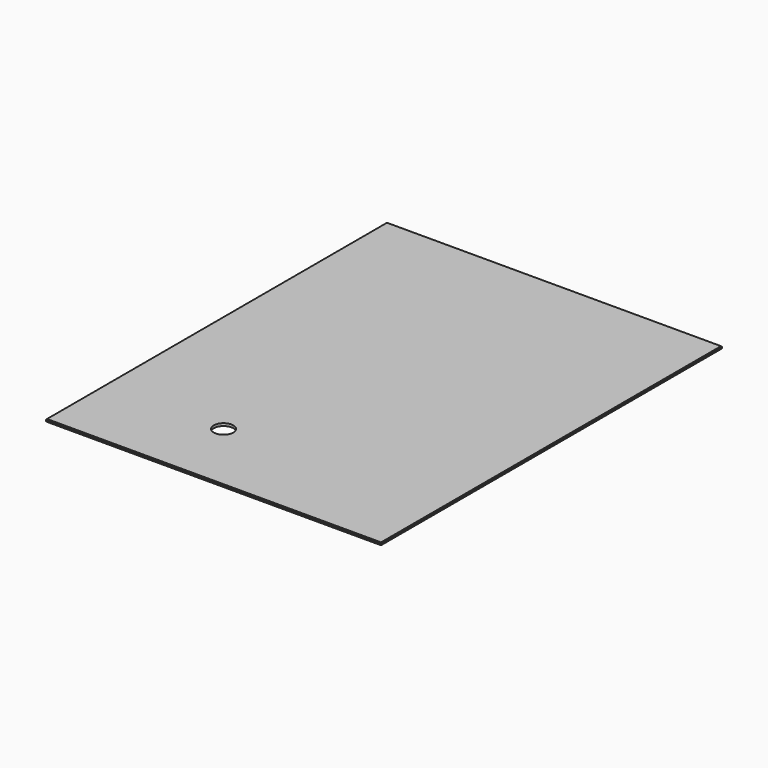
from build123d import *

# Parameters (mm, degrees)
F0_W     = 652
F0_H     = 829
F1_DEPTH = 2.5
F3_D     = 38
F4_SIZE  = 1


with BuildPart() as f1:
    # F0 (on Top) → F1 (new body, symmetric)
    with BuildSketch(Plane.XY):
        Rectangle(F0_W, F0_H)
    extrude(amount=F1_DEPTH, both=True)

    # F3 (through all)
    with Locations(Plane.XY.offset(2.5)):
        with Locations((-95, -271.5)):
            Hole(F3_D / 2)

    # F4
    f4_edges = [f1.edges().sort_by_distance(p)[0] for p in [
        (0, -414.5, -2.5),
        (-326, 0, -2.5),
        (0, 414.5, -2.5),
        (326, 0, -2.5),
        (326, 0, 2.5),
        (0, 414.5, 2.5),
        (-326, 0, 2.5),
        (0, -414.5, 2.5),
    ]]
    chamfer(f4_edges, length=F4_SIZE)


solid = f1.part
